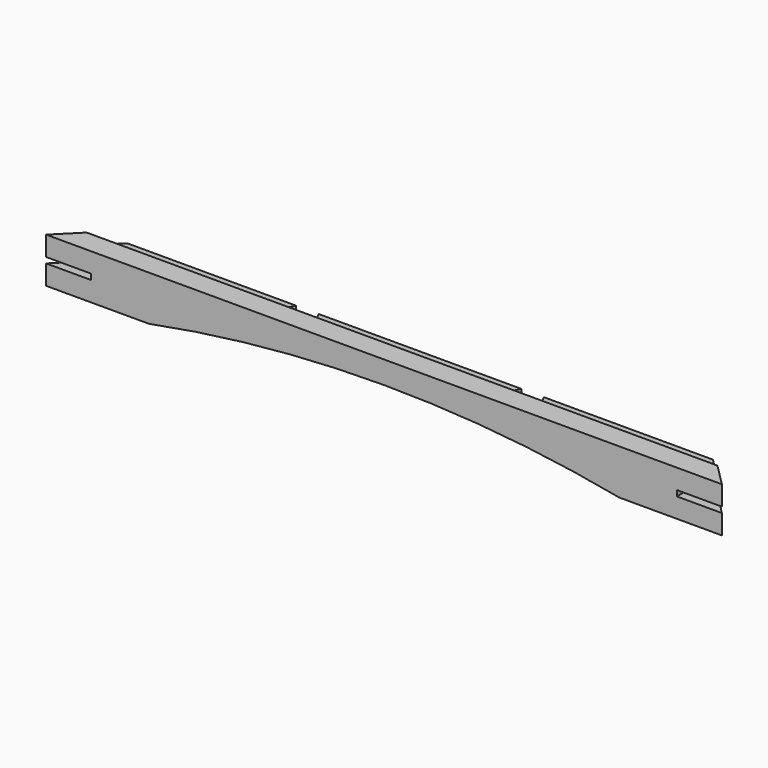
from build123d import *

# Parameters (mm, degrees)
F1_DEPTH  = 25.4
F2_W      = 25.4
F2_H      = 3.175
F3_DEPTH  = 25.4
F4_W      = 25.4
F4_H      = 3.175
F5_DEPTH  = 25.4
F7_DEPTH  = 25.4
F8_DEPTH  = 6.35
F10_DEPTH = 6.35
F13_DEPTH = 19.05


with BuildPart() as f1:
    # F0 (on Front) → F1 (new body)
    with BuildSketch(Plane.XZ):
        with BuildLine():
            Line((246.660952732, 12.7), (-134.339047268, 12.7))
            Line((-134.339047268, 12.7), (-134.339047268, -12.7))
            Line((-134.339047268, -12.7), (-76.4309399312, -12.7))
            ThreePointArc((-76.4309399312, -12.7), (56.160952732, 0), (188.7528453951, -12.7))
            Line((188.7528453951, -12.7), (246.660952732, -12.7))
            Line((246.660952732, -12.7), (246.660952732, 12.7))
        make_face()
    extrude(amount=F1_DEPTH)

    # F2 (on face) → F3 (cut)
    with BuildSketch(Plane.YZ.offset(246.660952732)):
        with Locations((-12.7, 0)):
            Rectangle(F2_W, F2_H)
    extrude(amount=-F3_DEPTH, mode=Mode.SUBTRACT)

    # F4 (on face) → F5 (cut)
    with BuildSketch(Plane(origin=(-134.339047268, 0, 0), x_dir=(0, -1, 0), z_dir=(-1, 0, 0))):
        with Locations((12.7, 0)):
            Rectangle(F4_W, F4_H)
    extrude(amount=-F5_DEPTH, mode=Mode.SUBTRACT)

    # F6 (on face) → F7 (cut)
    with BuildSketch(Plane.XY.offset(12.7)):
        Polygon((-134.339047268, 0), (-134.339047268, -25.4), (-121.639047268, -12.7), (-108.939047268, 0), align=None)
        Polygon((233.960952732, -12.7), (246.660952732, -25.4), (246.660952732, 0), (221.260952732, 0), align=None)
    extrude(amount=-F7_DEPTH, mode=Mode.SUBTRACT)

    # F6 (on face) → F8 (cut)
    with BuildSketch(Plane.XY.offset(12.7)):
        Polygon((-108.939047268, 0), (-121.639047268, -12.7), (233.960952732, -12.7), (221.260952732, 0), align=None)
    extrude(amount=-F8_DEPTH, mode=Mode.SUBTRACT)

    # F9 (on face) → F10 (cut)
    with BuildSketch(Plane.XY.offset(6.35)):
        Polygon((-0.989047268, 0), (-13.689047268, 0), (-20.039047268, -12.7), (5.360952732, -12.7), align=None)
        Polygon((126.010952732, 0), (113.310952732, 0), (106.960952732, -12.7), (132.360952732, -12.7), align=None)
    extrude(amount=-F10_DEPTH, mode=Mode.SUBTRACT)

    # F11 (on face) + F12 (on face) → F13 (cut)
    with BuildSketch(Plane(origin=(0, 0, -12.7), x_dir=(1, 0, 0), z_dir=(0, 0, -1))):
        with BuildLine():
            ThreePointArc((-116.3785350259, 19.5480122421), (-117.8451937838, 18.568022191), (-117.501067041, 16.837980227))
            Line((-117.501067041, 16.837980227), (-116.3785350259, 17.9605122421))
            Line((-116.3785350259, 17.9605122421), (-116.3785350259, 19.5480122421))
        make_face()
        with BuildLine():
            Line((-116.3785350259, 17.9605122421), (-114.7910350259, 17.9605122421))
            ThreePointArc((-114.7910350259, 17.9605122421), (-115.2560030108, 19.0830442573), (-116.3785350259, 19.5480122421))
            Line((-116.3785350259, 19.5480122421), (-116.3785350259, 17.9605122421))
        make_face()
        with BuildLine():
            ThreePointArc((-117.501067041, 16.837980227), (-115.771025077, 16.4938534843), (-114.7910350259, 17.9605122421))
            Line((-114.7910350259, 17.9605122421), (-116.3785350259, 17.9605122421))
            Line((-116.3785350259, 17.9605122421), (-117.501067041, 16.837980227))
        make_face()
    with BuildSketch(Plane(origin=(0, 0, -12.7), x_dir=(1, 0, 0), z_dir=(0, 0, -1))):
        with BuildLine():
            Line((228.7004404898, 17.9605122421), (229.822972505, 16.837980227))
            ThreePointArc((229.822972505, 16.837980227), (230.1670992477, 17.3530022933), (230.2879404898, 17.9605122421))
            ThreePointArc((230.2879404898, 17.9605122421), (229.822972505, 19.0830442573), (228.7004404898, 19.5480122421))
            Line((228.7004404898, 19.5480122421), (228.7004404898, 17.9605122421))
        make_face()
        with BuildLine():
            ThreePointArc((228.7004404898, 19.5480122421), (227.5779084747, 19.0830442573), (227.1129404898, 17.9605122421))
            Line((227.1129404898, 17.9605122421), (228.7004404898, 17.9605122421))
            Line((228.7004404898, 17.9605122421), (228.7004404898, 19.5480122421))
        make_face()
        with BuildLine():
            Line((228.7004404898, 17.9605122421), (227.1129404898, 17.9605122421))
            ThreePointArc((227.1129404898, 17.9605122421), (228.0929305409, 16.4938534843), (229.822972505, 16.837980227))
            Line((229.822972505, 16.837980227), (228.7004404898, 17.9605122421))
        make_face()
    extrude(amount=-F13_DEPTH, mode=Mode.SUBTRACT)


solid = f1.part
